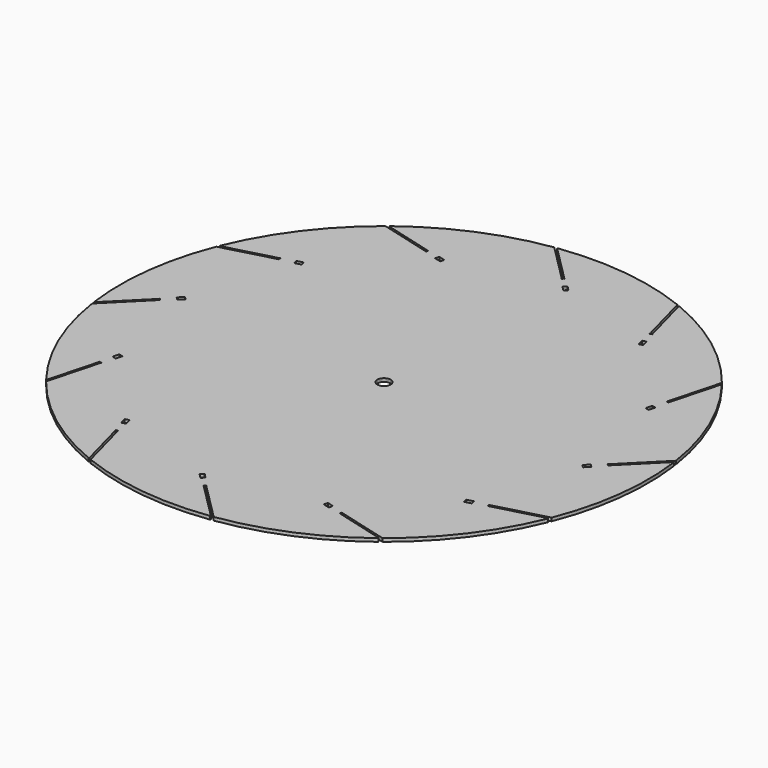
from build123d import *

# Parameters (mm, degrees)
F0_R          = 5.05
F1_DEPTH      = 1.25
F1_DEPTH_BACK = 1.25


with BuildPart() as f1:
    # F0 (on Top) → F1 (new body, two sides)
    with BuildSketch(Plane.XY) as f1_sk:
        with BuildLine():
            Line((-169.263686, -0.654074), (-197.850831, -29.241219))
            ThreePointArc((-197.850831, -29.241219), (-184.022709, -78.330343), (-158.228698, -122.326118))
            Line((-158.228698, -122.326118), (-157.736526, -122.041962))
            Line((-157.736526, -122.041962), (-147.7568, -84.797118))
            ThreePointArc((-147.7568, -84.797118), (-147.792977, -84.522325), (-147.573088, -84.691052))
            Line((-147.573088, -84.691052), (-146.365681, -85.014576))
            ThreePointArc((-146.365681, -85.014576), (-146.090888, -84.978399), (-146.259615, -85.198287))
            Line((-146.259615, -85.198287), (-156.723236, -124.249053))
            ThreePointArc((-156.723236, -124.249053), (-120.203169, -159.847422), (-75.867013, -185.051875))
            Line((-75.867013, -185.051875), (-75.582858, -184.559702))
            Line((-75.582858, -184.559702), (-85.562583, -147.314858))
            ThreePointArc((-85.562583, -147.314858), (-85.73131, -147.094969), (-85.456517, -147.131146))
            Line((-85.456517, -147.131146), (-84.24911, -146.807623))
            ThreePointArc((-84.24911, -146.807623), (-84.029221, -146.638896), (-84.065398, -146.913689))
            Line((-84.065398, -146.913689), (-73.601777, -185.964455))
            ThreePointArc((-73.601777, -185.964455), (-24.175287, -198.533512), (26.823176, -198.193131))
            Line((26.823176, -198.193131), (26.823176, -197.624819))
            Line((26.823176, -197.624819), (-0.441942, -170.359701))
            ThreePointArc((-0.441942, -170.359701), (-0.698008, -170.253635), (-0.441942, -170.147569))
            Line((-0.441942, -170.147569), (0.441942, -169.263686))
            ThreePointArc((0.441942, -169.263686), (0.548008, -169.00762), (0.654074, -169.263686))
            Line((0.654074, -169.263686), (29.241219, -197.850831))
            ThreePointArc((29.241219, -197.850831), (78.330343, -184.022709), (122.326118, -158.228698))
            Line((122.326118, -158.228698), (122.041962, -157.736526))
            Line((122.041962, -157.736526), (84.797118, -147.7568))
            ThreePointArc((84.797118, -147.7568), (84.522325, -147.792977), (84.691052, -147.573088))
            Line((84.691052, -147.573088), (85.014576, -146.365681))
            ThreePointArc((85.014576, -146.365681), (84.978399, -146.090888), (85.198287, -146.259615))
            Line((85.198287, -146.259615), (124.249053, -156.723236))
            ThreePointArc((124.249053, -156.723236), (159.847422, -120.203169), (185.051875, -75.867013))
            Line((185.051875, -75.867013), (184.559702, -75.582858))
            Line((184.559702, -75.582858), (147.314858, -85.562583))
            ThreePointArc((147.314858, -85.562583), (147.094969, -85.73131), (147.131146, -85.456517))
            Line((147.131146, -85.456517), (146.807623, -84.24911))
            ThreePointArc((146.807623, -84.24911), (146.638896, -84.029221), (146.913689, -84.065398))
            Line((146.913689, -84.065398), (185.964455, -73.601777))
            ThreePointArc((185.964455, -73.601777), (198.533512, -24.175287), (198.193131, 26.823176))
            Line((198.193131, 26.823176), (197.624819, 26.823176))
            Line((197.624819, 26.823176), (170.359701, -0.441942))
            ThreePointArc((170.359701, -0.441942), (170.253635, -0.698008), (170.147569, -0.441942))
            Line((170.147569, -0.441942), (169.263686, 0.441942))
            ThreePointArc((169.263686, 0.441942), (169.00762, 0.548008), (169.263686, 0.654074))
            Line((169.263686, 0.654074), (197.850831, 29.241219))
            ThreePointArc((197.850831, 29.241219), (184.022709, 78.330343), (158.228698, 122.326118))
            Line((158.228698, 122.326118), (157.736526, 122.041962))
            Line((157.736526, 122.041962), (147.7568, 84.797118))
            ThreePointArc((147.7568, 84.797118), (147.792977, 84.522325), (147.573088, 84.691052))
            Line((147.573088, 84.691052), (146.365681, 85.014576))
            ThreePointArc((146.365681, 85.014576), (146.090888, 84.978399), (146.259615, 85.198287))
            Line((146.259615, 85.198287), (156.723236, 124.249053))
            ThreePointArc((156.723236, 124.249053), (120.203169, 159.847422), (75.867013, 185.051875))
            Line((75.867013, 185.051875), (75.582858, 184.559702))
            Line((75.582858, 184.559702), (85.562583, 147.314858))
            ThreePointArc((85.562583, 147.314858), (85.73131, 147.094969), (85.456517, 147.131146))
            Line((85.456517, 147.131146), (84.24911, 146.807623))
            ThreePointArc((84.24911, 146.807623), (84.029221, 146.638896), (84.065398, 146.913689))
            Line((84.065398, 146.913689), (73.601777, 185.964455))
            ThreePointArc((73.601777, 185.964455), (24.175287, 198.533512), (-26.823176, 198.193131))
            Line((-26.823176, 198.193131), (-26.823176, 197.624819))
            Line((-26.823176, 197.624819), (0.441942, 170.359701))
            ThreePointArc((0.441942, 170.359701), (0.698008, 170.253635), (0.441942, 170.147569))
            Line((0.441942, 170.147569), (-0.441942, 169.263686))
            ThreePointArc((-0.441942, 169.263686), (-0.548008, 169.00762), (-0.654074, 169.263686))
            Line((-0.654074, 169.263686), (-29.241219, 197.850831))
            ThreePointArc((-29.241219, 197.850831), (-78.330343, 184.022709), (-122.326118, 158.228698))
            Line((-122.326118, 158.228698), (-122.041962, 157.736526))
            Line((-122.041962, 157.736526), (-84.797118, 147.7568))
            ThreePointArc((-84.797118, 147.7568), (-84.522325, 147.792977), (-84.691052, 147.573088))
            Line((-84.691052, 147.573088), (-85.014576, 146.365681))
            ThreePointArc((-85.014576, 146.365681), (-84.978399, 146.090888), (-85.198287, 146.259615))
            Line((-85.198287, 146.259615), (-124.249053, 156.723236))
            ThreePointArc((-124.249053, 156.723236), (-159.847422, 120.203169), (-185.051875, 75.867013))
            Line((-185.051875, 75.867013), (-184.559702, 75.582858))
            Line((-184.559702, 75.582858), (-147.314858, 85.562583))
            ThreePointArc((-147.314858, 85.562583), (-147.094969, 85.73131), (-147.131146, 85.456517))
            Line((-147.131146, 85.456517), (-146.807623, 84.24911))
            ThreePointArc((-146.807623, 84.24911), (-146.638896, 84.029221), (-146.913689, 84.065398))
            Line((-146.913689, 84.065398), (-185.964455, 73.601777))
            ThreePointArc((-185.964455, 73.601777), (-198.533512, 24.175287), (-198.193131, -26.823176))
            Line((-198.193131, -26.823176), (-197.624819, -26.823176))
            Line((-197.624819, -26.823176), (-170.359701, 0.441942))
            ThreePointArc((-170.359701, 0.441942), (-170.253635, 0.698008), (-170.147569, 0.441942))
            Line((-170.147569, 0.441942), (-169.263686, -0.441942))
            ThreePointArc((-169.263686, -0.441942), (-169.00762, -0.548008), (-169.263686, -0.654074))
        make_face()
        Polygon((-5.99273, -161.556222), (-8.149406, -163.712898), (-11.68494, -160.177364), (-9.528264, -158.020688), align=None, mode=Mode.SUBTRACT)
        Polygon((-85.967967, -136.915427), (-88.914041, -137.704825), (-90.208136, -132.875196), (-87.262063, -132.085798), align=None, mode=Mode.SUBTRACT)
        Polygon((-142.908157, -75.588255), (-145.854231, -74.798856), (-144.560136, -69.969227), (-141.614062, -70.758625), align=None, mode=Mode.SUBTRACT)
        Polygon((75.588255, -142.908157), (74.798856, -145.854231), (69.969227, -144.560136), (70.758625, -141.614062), align=None, mode=Mode.SUBTRACT)
        Circle(F0_R, mode=Mode.SUBTRACT)
        Polygon((136.915427, -85.967967), (137.704825, -88.914041), (132.875196, -90.208136), (132.085798, -87.262063), align=None, mode=Mode.SUBTRACT)
        Polygon((161.556222, -5.99273), (163.712898, -8.149406), (160.177364, -11.68494), (158.020688, -9.528264), align=None, mode=Mode.SUBTRACT)
        Polygon((-161.556222, 5.99273), (-163.712898, 8.149406), (-160.177364, 11.68494), (-158.020688, 9.528264), align=None, mode=Mode.SUBTRACT)
        Polygon((-136.915427, 85.967967), (-137.704825, 88.914041), (-132.875196, 90.208136), (-132.085798, 87.262063), align=None, mode=Mode.SUBTRACT)
        Polygon((-75.588255, 142.908157), (-74.798856, 145.854231), (-69.969227, 144.560136), (-70.758625, 141.614062), align=None, mode=Mode.SUBTRACT)
        Polygon((142.908157, 75.588255), (145.854231, 74.798856), (144.560136, 69.969227), (141.614062, 70.758625), align=None, mode=Mode.SUBTRACT)
        Polygon((85.967967, 136.915427), (88.914041, 137.704825), (90.208136, 132.875196), (87.262063, 132.085798), align=None, mode=Mode.SUBTRACT)
        Polygon((5.99273, 161.556222), (8.149406, 163.712898), (11.68494, 160.177364), (9.528264, 158.020688), align=None, mode=Mode.SUBTRACT)
    extrude(amount=F1_DEPTH)
    extrude(f1_sk.sketch, amount=-F1_DEPTH_BACK)


solid = f1.part
